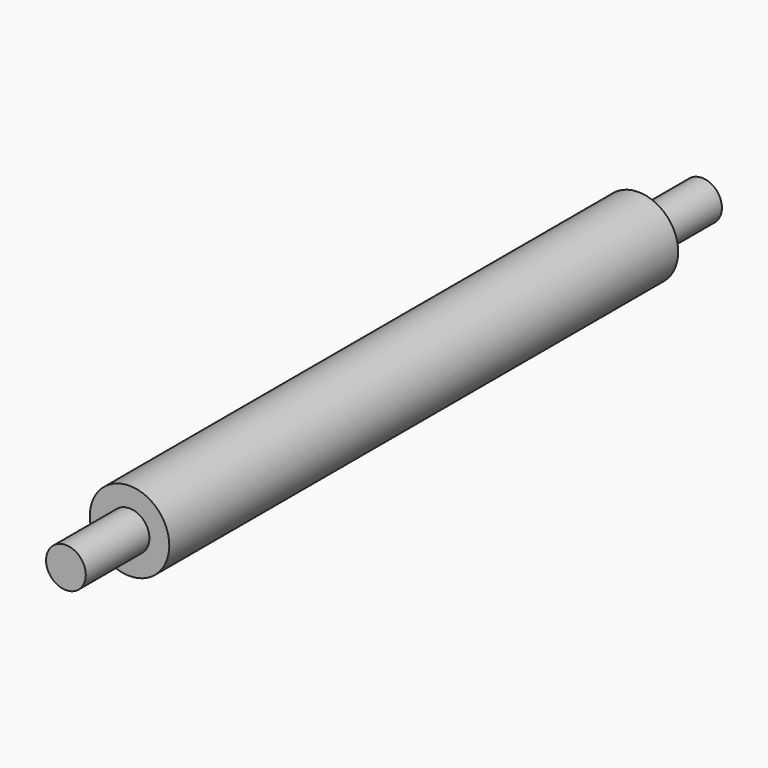
from build123d import *

# Parameters (mm, degrees)
F0_R     = 6.35
F1_DEPTH = 25.4
F2_R     = 12.7
F2_R_2   = 6.35
F3_DEPTH = 203.2
F4_R     = 6.35
F5_DEPTH = 25.4


with BuildPart() as f1:
    # F0 (on Front) → F1 (new body)
    with BuildSketch(Plane.XZ):
        Circle(F0_R)
    extrude(amount=F1_DEPTH)

    # F2 (on face) → F3 (join)
    with BuildSketch(Plane.XZ.offset(25.4)):
        Circle(F2_R)
        Circle(F2_R_2, mode=Mode.SUBTRACT)
        Circle(F2_R_2)
    extrude(amount=F3_DEPTH)

    # F4 (on face) → F5 (join)
    with BuildSketch(Plane.XZ.offset(228.6)):
        Circle(F4_R)
    extrude(amount=F5_DEPTH)


solid = f1.part
